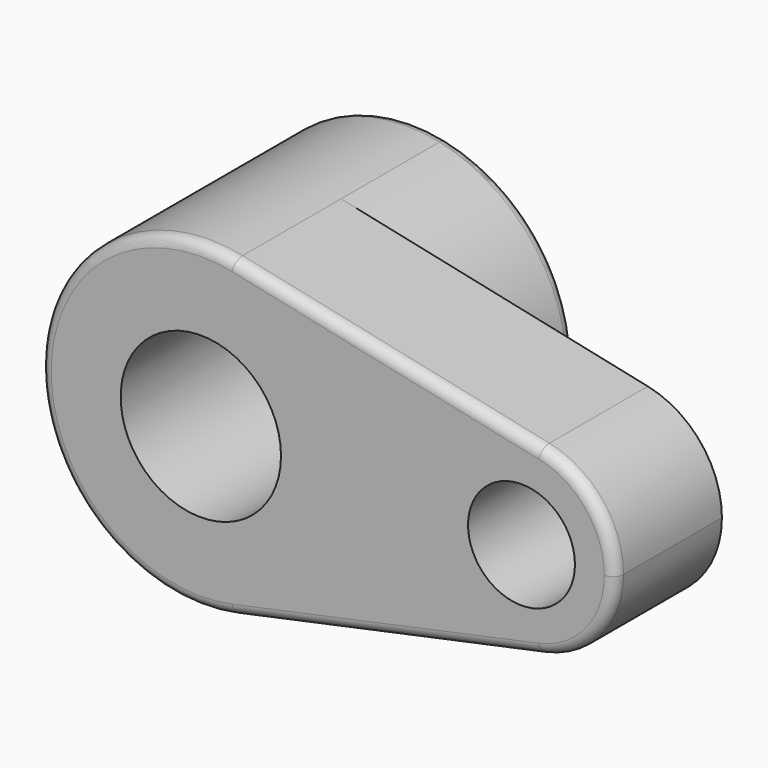
from build123d import *

# Parameters (mm, degrees)
F0_R     = 15
F0_R_2   = 10
F1_DEPTH = 25
F2_DEPTH = 25
F3_R     = 2
F4_SIZE  = 3


with BuildPart() as f1:
    # F0 (on Front) → F1 (new body)
    with BuildSketch(Plane.XZ):
        with BuildLine():
            ThreePointArc((6.25, -29.341736), (23.318448, -18.874586), (30, 0))
            ThreePointArc((30, 0), (23.318448, 18.874586), (6.25, 29.341736))
            ThreePointArc((6.25, 29.341736), (-30, 0), (6.25, -29.341736))
        make_face()
        Circle(F0_R, mode=Mode.SUBTRACT)
        with BuildLine():
            ThreePointArc((6.25, 29.341736), (23.318448, 18.874586), (30, 0))
            ThreePointArc((30, 0), (23.318448, -18.874586), (6.25, -29.341736))
            Line((6.25, -29.341736), (63.645833, -17.116013))
            ThreePointArc((63.645833, -17.116013), (42.5, 0), (63.645833, 17.116013))
            Line((63.645833, 17.116013), (6.25, 29.341736))
        make_face()
        with BuildLine():
            ThreePointArc((77.5, 0), (73.602428, 11.010175), (63.645833, 17.116013))
            ThreePointArc((63.645833, 17.116013), (42.5, 0), (63.645833, -17.116013))
            ThreePointArc((63.645833, -17.116013), (73.602428, -11.010175), (77.5, 0))
        make_face()
        with Locations((60, 0)):
            Circle(F0_R_2, mode=Mode.SUBTRACT)
    extrude(amount=F1_DEPTH)

    # F0 (on Front) → F2 (join)
    with BuildSketch(Plane.XZ):
        with BuildLine():
            ThreePointArc((6.25, -29.341736), (23.318448, -18.874586), (30, 0))
            ThreePointArc((30, 0), (23.318448, 18.874586), (6.25, 29.341736))
            ThreePointArc((6.25, 29.341736), (-30, 0), (6.25, -29.341736))
        make_face()
        Circle(F0_R, mode=Mode.SUBTRACT)
    extrude(amount=-F2_DEPTH)

    # F3
    f3_edges = [f1.edges().sort_by_distance(p)[0] for p in [
        (-6.25, 25, 29.341736),
        (34.947917, -25, 23.228875),
    ]]
    fillet(f3_edges, radius=F3_R)

    # F4
    f4_edges = [f1.edges().sort_by_distance(p)[0] for p in [
        (-15, 25, 0),
        (50, 0, 0),
    ]]
    chamfer(f4_edges, length=F4_SIZE)


solid = f1.part
